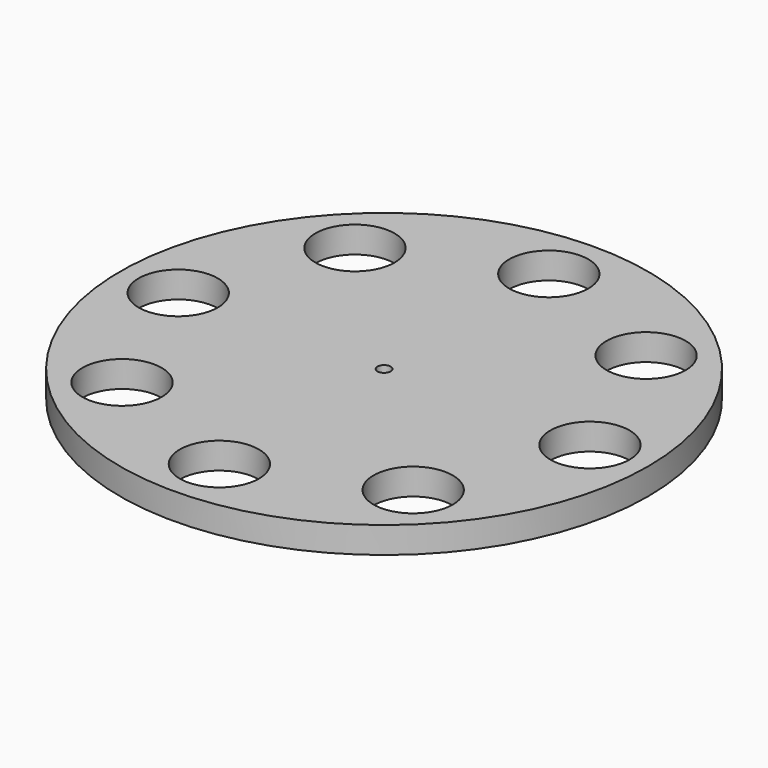
from build123d import *

# Parameters (mm, degrees)
F0_R     = 63.5
F0_R_2   = 9.525
F0_R_3   = 34.925
F0_R_4   = 1.5875
F1_DEPTH = 6.35


with BuildPart() as f1:
    # F0 (on Top) → F1 (new body)
    with BuildSketch(Plane.XY):
        with Locations((-1.980903, 4.960525)):
            Circle(F0_R)
        with Locations((-37.003902, -30.062474)):
            Circle(F0_R_2, mode=Mode.SUBTRACT)
        with Locations((-1.980903, -44.569475)):
            Circle(F0_R_2, mode=Mode.SUBTRACT)
        with Locations((33.042095, -30.062474)):
            Circle(F0_R_2, mode=Mode.SUBTRACT)
        with Locations((-51.510903, 4.960525)):
            Circle(F0_R_2, mode=Mode.SUBTRACT)
        with Locations((-37.003902, 39.983524)):
            Circle(F0_R_2, mode=Mode.SUBTRACT)
        with Locations((-1.980903, 4.960525)):
            Circle(F0_R_3, mode=Mode.SUBTRACT)
        with Locations((47.549097, 4.960525)):
            Circle(F0_R_2, mode=Mode.SUBTRACT)
        with Locations((-1.980903, 54.490525)):
            Circle(F0_R_2, mode=Mode.SUBTRACT)
        with Locations((33.042095, 39.983524)):
            Circle(F0_R_2, mode=Mode.SUBTRACT)
        with Locations((-1.980903, 4.960525)):
            Circle(F0_R_3)
        with Locations((-1.980903, 4.960525)):
            Circle(F0_R_4, mode=Mode.SUBTRACT)
    extrude(amount=F1_DEPTH)


solid = f1.part
